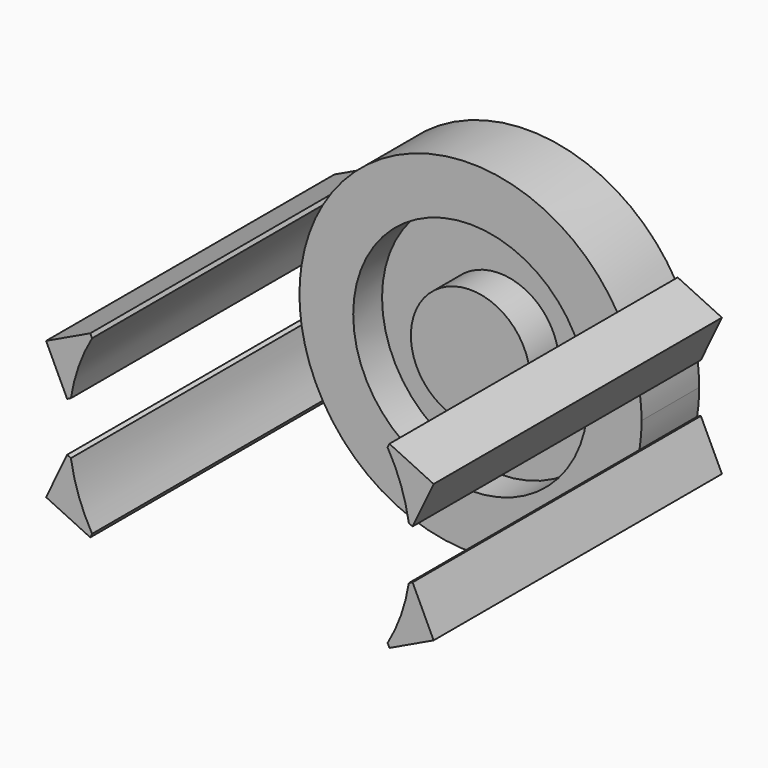
from build123d import *

# Parameters (mm, degrees)
F1_DEPTH = 2
F2_DEPTH = 10
F3_R     = 3.2545252872
F4_DEPTH = 1
F5_R     = 1.6545252872
F6_DEPTH = 1


with BuildPart() as f1:
    # F0 (on Front) → F1 (new body)
    with BuildSketch(Plane.XZ):
        with BuildLine():
            ThreePointArc((4.6885970941, 0.8556488446), (4.7312339405, 1.2208070974), (4.7454747128, 1.588170202))
            ThreePointArc((4.7454747128, 1.588170202), (4.7312339405, 1.9555333066), (4.6885970941, 2.3206915594))
            Line((4.6885970941, 2.3206915594), (3.5662952021, 2.8547403321))
            Line((3.5662952021, 2.8547403321), (4.1003439748, 3.9770422242))
            ThreePointArc((4.1003439748, 3.9770422242), (0, 6.3336449148), (-4.1003439748, 3.9770422242))
            Line((-4.1003439748, 3.9770422242), (-3.5662952021, 2.8547403321))
            Line((-3.5662952021, 2.8547403321), (-4.6885970941, 2.3206915594))
            ThreePointArc((-4.6885970941, 2.3206915594), (-4.7454747128, 1.588170202), (-4.6885970941, 0.8556488446))
            Line((-4.6885970941, 0.8556488446), (-3.5662952021, 0.3216000719))
            Line((-3.5662952021, 0.3216000719), (-4.1003439748, -0.8007018202))
            ThreePointArc((-4.1003439748, -0.8007018202), (0, -3.1573045108), (4.1003439748, -0.8007018202))
            Line((4.1003439748, -0.8007018202), (3.5662952021, 0.3216000719))
            Line((3.5662952021, 0.3216000719), (4.6885970941, 0.8556488446))
        make_face()
        with BuildLine():
            Line((-3.5662952021, 2.8547403321), (-4.1003439748, 3.9770422242))
            ThreePointArc((-4.1003439748, 3.9770422242), (-4.4718279998, 3.176340404), (-4.6885970941, 2.3206915594))
            Line((-4.6885970941, 2.3206915594), (-3.5662952021, 2.8547403321))
        make_face()
        with BuildLine():
            ThreePointArc((-4.6885970941, 2.3206915594), (-4.4718279998, 3.176340404), (-4.1003439748, 3.9770422242))
            Line((-4.1003439748, 3.9770422242), (-4.1502279279, 4.0818732017))
            Line((-4.1502279279, 4.0818732017), (-5.3773607975, 3.4979404759))
            Line((-5.3773607975, 3.4979404759), (-4.7934280717, 2.2708076063))
            Line((-4.7934280717, 2.2708076063), (-4.6885970941, 2.3206915594))
        make_face()
        with BuildLine():
            ThreePointArc((-4.6885970941, 0.8556488446), (-4.4718279998, 0), (-4.1003439748, -0.8007018202))
            Line((-4.1003439748, -0.8007018202), (-3.5662952021, 0.3216000719))
            Line((-3.5662952021, 0.3216000719), (-4.6885970941, 0.8556488446))
        make_face()
        with BuildLine():
            Line((-4.1502279279, -0.9055327977), (-4.1003439748, -0.8007018202))
            ThreePointArc((-4.1003439748, -0.8007018202), (-4.4718279998, 0), (-4.6885970941, 0.8556488446))
            Line((-4.6885970941, 0.8556488446), (-4.7934280717, 0.9055327977))
            Line((-4.7934280717, 0.9055327977), (-5.3773607975, -0.3216000719))
            Line((-5.3773607975, -0.3216000719), (-4.1502279279, -0.9055327977))
        make_face()
        with BuildLine():
            Line((4.7934280717, 0.9055327977), (4.6885970941, 0.8556488446))
            ThreePointArc((4.6885970941, 0.8556488446), (4.4718279998, 0), (4.1003439748, -0.8007018202))
            Line((4.1003439748, -0.8007018202), (4.1502279279, -0.9055327977))
            Line((4.1502279279, -0.9055327977), (5.3773607975, -0.3216000719))
            Line((5.3773607975, -0.3216000719), (4.7934280717, 0.9055327977))
        make_face()
        with BuildLine():
            ThreePointArc((4.1003439748, -0.8007018202), (4.4718279998, 0), (4.6885970941, 0.8556488446))
            Line((4.6885970941, 0.8556488446), (3.5662952021, 0.3216000719))
            Line((3.5662952021, 0.3216000719), (4.1003439748, -0.8007018202))
        make_face()
        with BuildLine():
            Line((3.5662952021, 2.8547403321), (4.6885970941, 2.3206915594))
            ThreePointArc((4.6885970941, 2.3206915594), (4.4718279998, 3.176340404), (4.1003439748, 3.9770422242))
            Line((4.1003439748, 3.9770422242), (3.5662952021, 2.8547403321))
        make_face()
        with BuildLine():
            ThreePointArc((4.1003439748, 3.9770422242), (4.4718279998, 3.176340404), (4.6885970941, 2.3206915594))
            Line((4.6885970941, 2.3206915594), (4.7934280717, 2.2708076063))
            Line((4.7934280717, 2.2708076063), (5.3773607975, 3.4979404759))
            Line((5.3773607975, 3.4979404759), (4.1502279279, 4.0818732017))
            Line((4.1502279279, 4.0818732017), (4.1003439748, 3.9770422242))
        make_face()
    extrude(amount=F1_DEPTH)

    # F0 (on Front) → F2 (join)
    with BuildSketch(Plane.XZ):
        with BuildLine():
            ThreePointArc((-4.6885970941, 2.3206915594), (-4.4718279998, 3.176340404), (-4.1003439748, 3.9770422242))
            Line((-4.1003439748, 3.9770422242), (-4.1502279279, 4.0818732017))
            Line((-4.1502279279, 4.0818732017), (-5.3773607975, 3.4979404759))
            Line((-5.3773607975, 3.4979404759), (-4.7934280717, 2.2708076063))
            Line((-4.7934280717, 2.2708076063), (-4.6885970941, 2.3206915594))
        make_face()
        with BuildLine():
            Line((-4.1502279279, -0.9055327977), (-4.1003439748, -0.8007018202))
            ThreePointArc((-4.1003439748, -0.8007018202), (-4.4718279998, 0), (-4.6885970941, 0.8556488446))
            Line((-4.6885970941, 0.8556488446), (-4.7934280717, 0.9055327977))
            Line((-4.7934280717, 0.9055327977), (-5.3773607975, -0.3216000719))
            Line((-5.3773607975, -0.3216000719), (-4.1502279279, -0.9055327977))
        make_face()
        with BuildLine():
            Line((4.7934280717, 0.9055327977), (4.6885970941, 0.8556488446))
            ThreePointArc((4.6885970941, 0.8556488446), (4.4718279998, 0), (4.1003439748, -0.8007018202))
            Line((4.1003439748, -0.8007018202), (4.1502279279, -0.9055327977))
            Line((4.1502279279, -0.9055327977), (5.3773607975, -0.3216000719))
            Line((5.3773607975, -0.3216000719), (4.7934280717, 0.9055327977))
        make_face()
        with BuildLine():
            ThreePointArc((4.1003439748, 3.9770422242), (4.4718279998, 3.176340404), (4.6885970941, 2.3206915594))
            Line((4.6885970941, 2.3206915594), (4.7934280717, 2.2708076063))
            Line((4.7934280717, 2.2708076063), (5.3773607975, 3.4979404759))
            Line((5.3773607975, 3.4979404759), (4.1502279279, 4.0818732017))
            Line((4.1502279279, 4.0818732017), (4.1003439748, 3.9770422242))
        make_face()
    extrude(amount=F2_DEPTH)

    # F3 (on face) → F4 (cut)
    with BuildSketch(Plane.XZ.offset(2)):
        with Locations((0, 1.588170202)):
            Circle(F3_R)
    extrude(amount=-F4_DEPTH, mode=Mode.SUBTRACT)

    # F5 (on face) → F6 (join)
    with BuildSketch(Plane.XZ.offset(1)):
        with Locations((0, 1.588170202)):
            Circle(F5_R)
    extrude(amount=F6_DEPTH)


solid = f1.part
